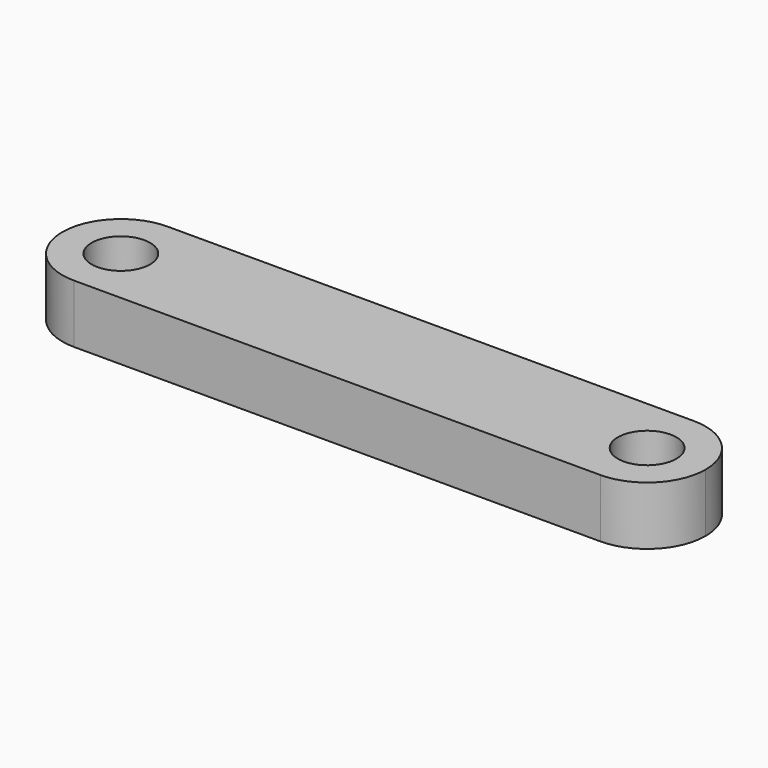
from build123d import *

# Parameters (mm, degrees)
F0_R     = 5
F1_DEPTH = 10


with BuildPart() as f1:
    # F0 (on Top) → F1 (new body)
    with BuildSketch(Plane.XY):
        with BuildLine():
            ThreePointArc((55, 0), (52.071068, 7.071068), (45, 10))
            Line((45, 10), (-45, 10))
            ThreePointArc((-45, 10), (-52.071068, 7.071068), (-55, 0))
            ThreePointArc((-55, 0), (-52.071068, -7.071068), (-45, -10))
            Line((-45, -10), (45, -10))
            ThreePointArc((45, -10), (52.071068, -7.071068), (55, 0))
        make_face()
        with Locations((-45, 0)):
            Circle(F0_R, mode=Mode.SUBTRACT)
        with Locations((45, 0)):
            Circle(F0_R, mode=Mode.SUBTRACT)
    extrude(amount=F1_DEPTH)


solid = f1.part
